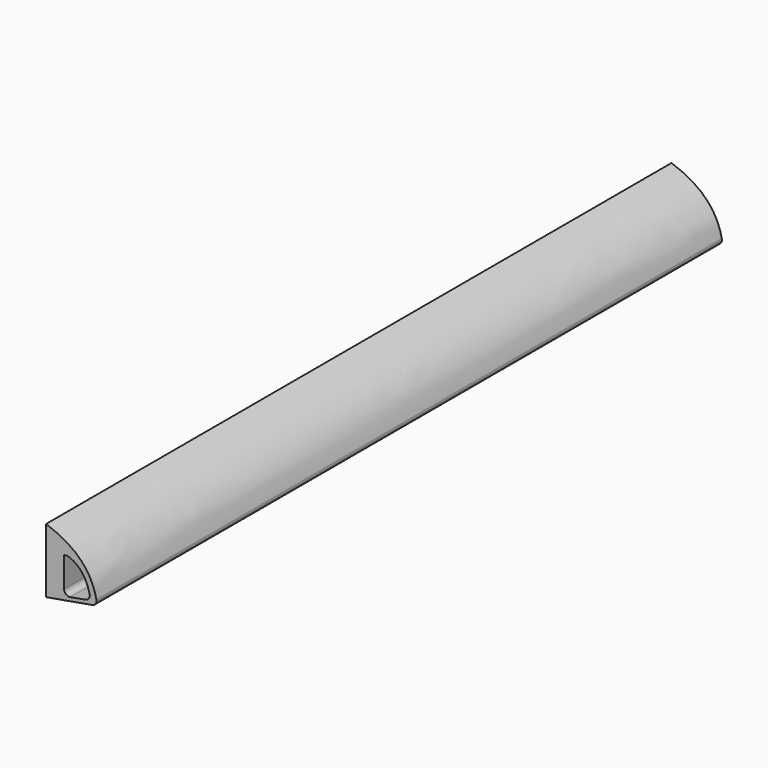
from build123d import *

# Parameters (mm, degrees)
PAD_DEPTH = 260
FILLET_R  = 1.7


with BuildPart() as part:
    # Sketch001 (on Sketch) → Pad (new body)
    with BuildSketch(Plane.XZ):
        with BuildLine():
            Line((11.041263, -4.271639), (10.832885, -3.08987))
            add(Edge.make_bspline(
                [(-6, 14.1661), (8.666682, 9.19528), (10.832885, -3.08987)],
                knots=[0, 0, 0, 1, 1, 1], degree=2))
            Line((-6, 14.1661), (-6, -7.276474))
            Line((-6, -7.276474), (11.041263, -4.271639))
        make_face()
        with BuildLine():
            Line((0, -5), (0, 7))
            Line((0, 7), (0.984808, 7.173648))
            add(Edge.make_bspline(
                [(0.984808, 7.173648), (7.306391, 5.39233), (8.86327, -3.437166)],
                knots=[0, 0, 0, 1, 1, 1], degree=2))
            Line((8.86327, -3.437166), (0, -5))
        make_face(mode=Mode.SUBTRACT)
    extrude(amount=PAD_DEPTH)

    # Fillet
    fillet_edges = [part.edges().sort_by_distance(p)[0] for p in [
        (8.86327, -130, -3.437166),
        (0, -130, -5),
        (11.041263, -130, -4.271639),
    ]]
    fillet(fillet_edges, radius=FILLET_R)


solid = part.part
